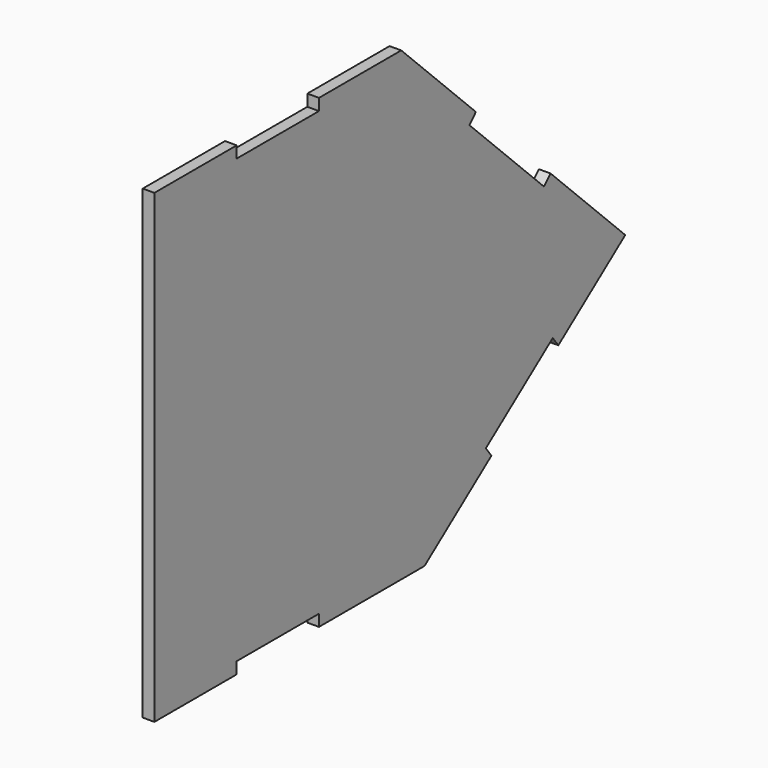
from build123d import *

# Parameters (mm, degrees)
F1_DEPTH = 3.175


with BuildPart() as f1:
    # F0 (on Right) → F1 (new body)
    with BuildSketch(Plane.YZ):
        Polygon((-48.195562, 60.325), (-48.195562, 0), (-48.195562, -63.5), (-20.145495, -63.5), (-20.145495, -60.325), (7.904572, -60.325), (7.904572, -63.5), (43.879438, -63.5), (66.688176, -46.286863), (64.775605, -43.752558), (87.584343, -26.539421), (89.496914, -29.073725), (112.305652, -11.860588), (86.852017, 13.258684), (84.621845, 10.998826), (59.166806, 36.119484), (61.396978, 38.379342), (35.941938, 63.5), (7.904572, 63.5), (7.904572, 60.325), (-20.145495, 60.325), (-20.145495, 63.5), (-48.195562, 63.5), align=None)
    extrude(amount=F1_DEPTH)


solid = f1.part
